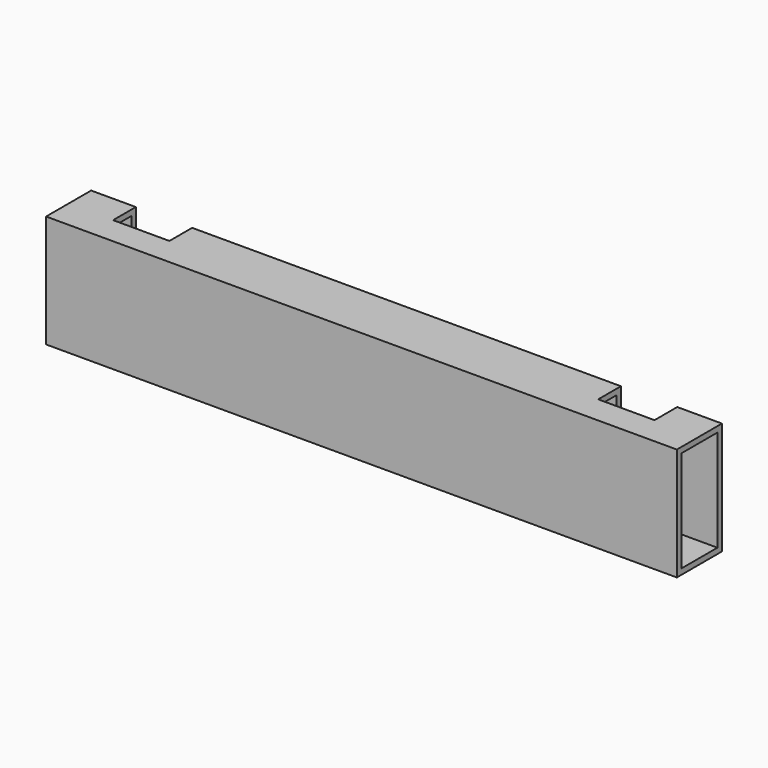
from build123d import *

# Parameters (mm, degrees)
F0_W     = 355.6
F0_H     = 63.5
F1_DEPTH = 31.75
F2_W     = 31.75
F2_H     = 16.01724
F3_DEPTH = 63.501
F4_W     = 25.4
F4_H     = 57.15
F5_DEPTH = 355.601


with BuildPart() as f1:
    # F0 (on Front) → F1 (new body)
    with BuildSketch(Plane.XZ):
        with Locations((177.8, 31.75)):
            Rectangle(F0_W, F0_H)
    extrude(amount=F1_DEPTH)

    # F2 (on face) → F3 (cut, through all)
    with BuildSketch(Plane.XY.offset(63.5)):
        with Locations((41.06418, -8.00862)):
            Rectangle(F2_W, F2_H)
        with Locations((314.53582, -8.00862)):
            Rectangle(F2_W, F2_H)
    extrude(amount=-F3_DEPTH, mode=Mode.SUBTRACT)

    # F4 (on face) → F5 (cut, through all)
    with BuildSketch(Plane(origin=(0, 0, 0), x_dir=(0, -1, 0), z_dir=(-1, 0, 0))):
        with Locations((15.875, 31.75)):
            Rectangle(F4_W, F4_H)
    extrude(amount=-F5_DEPTH, mode=Mode.SUBTRACT)


solid = f1.part
